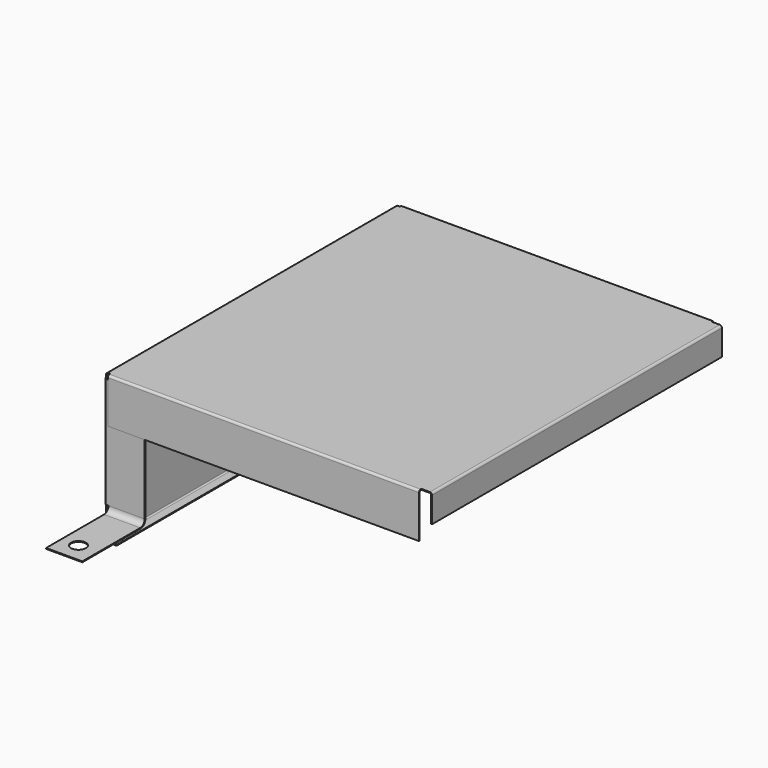
from build123d import *

# Parameters (mm, degrees)
PAD_DEPTH       = 42.5
PAD001_DEPTH    = 26
PAD002_DEPTH    = 73
PAD003_DEPTH    = 8.5
SKETCH004_R     = 1.75
POCKET_DEPTH    = 5
SKETCH005_R     = 1.75
POCKET001_DEPTH = 5


with BuildPart() as part:
    # Sketch → Pad (new body, symmetric)
    with BuildSketch(Plane.XZ):
        with BuildLine():
            Line((-35.75, -35), (-37.75, -35))
            ThreePointArc((-38.25, -34.5), (-38.103553, -34.853553), (-37.75, -35))
            Line((-38.25, -34.5), (-38.25, -0.5))
            ThreePointArc((-37.75, 0), (-38.103553, -0.146447), (-38.25, -0.5))
            Line((-37.75, 0), (37.75, 0))
            ThreePointArc((38.25, -0.5), (38.103553, -0.146447), (37.75, 0))
            Line((38.25, -0.5), (38.25, -6.5))
            Line((38.25, -6.5), (38.05, -6.5))
            Line((38.05, -6.5), (38.05, -0.5))
            ThreePointArc((38.05, -0.5), (37.962132, -0.287868), (37.75, -0.2))
            Line((37.75, -0.2), (-37.75, -0.2))
            ThreePointArc((-37.75, -0.2), (-37.962132, -0.287868), (-38.05, -0.5))
            Line((-38.05, -0.5), (-38.05, -34.5))
            ThreePointArc((-38.05, -34.5), (-37.962132, -34.712132), (-37.75, -34.8))
            Line((-37.75, -34.8), (-35.75, -34.8))
            Line((-35.75, -34.8), (-35.75, -35))
        make_face()
    extrude(amount=PAD_DEPTH, both=True)

    # Sketch001 (on Face15 of Pad) → Pad001 (join)
    with BuildSketch(Plane(origin=(0, 0, -1), x_dir=(-1, 0, 0), z_dir=(0, 0, 1))):
        with BuildLine():
            ThreePointArc((38.25, 42.5), (38.103553, 42.853553), (37.75, 43))
            Line((37.75, 43), (28.75, 43))
            Line((28.75, 43), (28.75, 42.8))
            Line((28.75, 42.8), (37.75, 42.8))
            ThreePointArc((38.05, 42.5), (37.962132, 42.712132), (37.75, 42.8))
            Line((38.05, 42.5), (38.25, 42.5))
        make_face()
        with BuildLine():
            ThreePointArc((37.75, -43), (38.103553, -42.853553), (38.25, -42.5))
            Line((38.05, -42.5), (38.25, -42.5))
            ThreePointArc((37.75, -42.8), (37.962132, -42.712132), (38.05, -42.5))
            Line((37.75, -42.8), (28.75, -42.8))
            Line((28.75, -42.8), (28.75, -43))
            Line((28.75, -43), (37.75, -43))
        make_face()
    extrude(amount=-PAD001_DEPTH)

    # Sketch002 (on Face9 of Pad001) → Pad002 (join)
    with BuildSketch(Plane(origin=(-37.25, 0, 0), x_dir=(0, 0, -1), z_dir=(-1, 0, 0))):
        with BuildLine():
            ThreePointArc((0.5, 43.2), (0.146447, 43.053553), (0, 42.7))
            Line((0, 42.7), (0, 42.5))
            Line((0, 42.5), (0.2, 42.5))
            Line((0.2, 42.5), (0.2, 42.7))
            ThreePointArc((0.5, 43), (0.287868, 42.912132), (0.2, 42.7))
            Line((0.5, 43), (10.5, 43))
            Line((10.5, 43), (10.5, 43.2))
            Line((10.5, 43.2), (0.5, 43.2))
        make_face()
        with BuildLine():
            ThreePointArc((0, -42.7), (0.146447, -43.053553), (0.5, -43.2))
            Line((4.5, -43.2), (0.5, -43.2))
            Line((4.5, -43), (4.5, -43.2))
            Line((0.5, -43), (4.5, -43))
            ThreePointArc((0.2, -42.7), (0.287868, -42.912132), (0.5, -43))
            Line((0.2, -42.5), (0.2, -42.7))
            Line((0, -42.5), (0.2, -42.5))
            Line((0, -42.7), (0, -42.5))
        make_face()
    extrude(amount=-PAD002_DEPTH)

    # Sketch003 (on Face38 of Pad002) → Pad003 (join)
    with BuildSketch(Plane(origin=(-28.75, 0, 0), x_dir=(0, 0, 1), z_dir=(1, 0, 0))):
        with BuildLine():
            ThreePointArc((-28.3, 44.3), (-27.919239, 43.380761), (-27, 43))
            Line((-27, 43), (-27, 42.8))
            ThreePointArc((-28.5, 44.3), (-28.06066, 43.23934), (-27, 42.8))
            Line((-28.5, 61.3), (-28.5, 44.3))
            Line((-28.3, 61.3), (-28.5, 61.3))
            Line((-28.3, 44.3), (-28.3, 61.3))
        make_face()
    extrude(amount=-PAD003_DEPTH)

    # Sketch004 (on Face36 of Pad003) → Pocket (cut)
    with BuildSketch(Plane(origin=(0, 43, 0), x_dir=(1, 0, 0), z_dir=(0, 1, 0))):
        with Locations((-32.75, 15)):
            Circle(SKETCH004_R)
    extrude(amount=-POCKET_DEPTH, mode=Mode.SUBTRACT)

    # Sketch005 (on Face59 of Pocket) → Pocket001 (cut)
    with BuildSketch(Plane(origin=(0, 0, -28.3), x_dir=(-1, 0, 0), z_dir=(0, 0, 1))):
        with Locations((33.25, 56.8)):
            Circle(SKETCH005_R)
    extrude(amount=-POCKET001_DEPTH, mode=Mode.SUBTRACT)


solid = part.part
